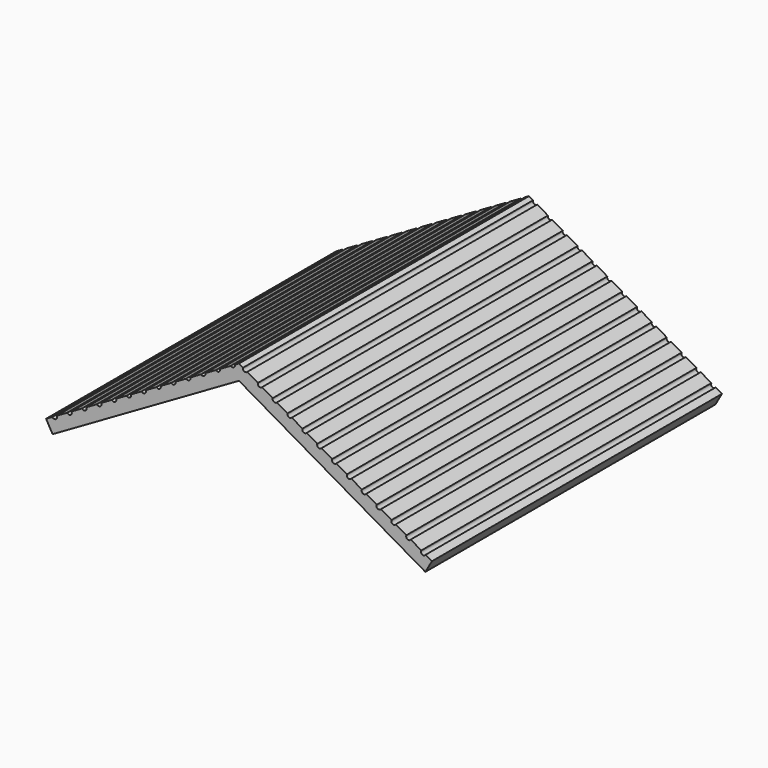
from build123d import *

# Parameters (mm, degrees)
F1_DEPTH = 55
F2_R     = 0.371764
F3_DEPTH = 63.7


with BuildPart() as f1:
    # F0 (on Front) → F1 (new body)
    with BuildSketch(Plane.XZ):
        Polygon((-28.276193, 23.045914), (0, 39.371182), (0, 41.680583), (-29.262428, 24.785912), align=None)
        Polygon((0, 41.680583), (0, 39.371182), (28.276193, 23.045914), (29.262428, 24.785912), align=None)
    extrude(amount=F1_DEPTH)

    # F2 (on face) → F3 (cut)
    with BuildSketch(Plane.XZ.offset(55)):
        with Locations((-27.983138, 25.524511)):
            Circle(F2_R)
        with Locations((-25.732473, 26.83245)):
            Circle(F2_R)
        with Locations((-23.481809, 28.14039)):
            Circle(F2_R)
        with Locations((-21.231145, 29.448329)):
            Circle(F2_R)
        with Locations((-18.980481, 30.756269)):
            Circle(F2_R)
        with Locations((-16.729817, 32.064208)):
            Circle(F2_R)
        with Locations((-14.479152, 33.372148)):
            Circle(F2_R)
        with Locations((-12.228488, 34.680087)):
            Circle(F2_R)
        with Locations((-9.977824, 35.988026)):
            Circle(F2_R)
        with Locations((-7.72716, 37.295966)):
            Circle(F2_R)
        with Locations((-5.476496, 38.603905)):
            Circle(F2_R)
        with Locations((-3.225831, 39.911845)):
            Circle(F2_R)
        with Locations((-0.975167, 41.219784)):
            Circle(F2_R)
        with Locations((1.275497, 42.527724)):
            Circle(F2_R)
        with Locations((3.526161, 43.835663)):
            Circle(F2_R)
        with Locations((7.72716, 37.295966)):
            Circle(F2_R)
        with Locations((27.983138, 25.524511)):
            Circle(F2_R)
        with Locations((12.228488, 34.680087)):
            Circle(F2_R)
        with Locations((25.732473, 26.83245)):
            Circle(F2_R)
        with Locations((-1.275497, 42.527724)):
            Circle(F2_R)
        with Locations((18.980481, 30.756269)):
            Circle(F2_R)
        with Locations((0.975167, 41.219784)):
            Circle(F2_R)
        with Locations((21.231145, 29.448329)):
            Circle(F2_R)
        with Locations((16.729817, 32.064208)):
            Circle(F2_R)
        with Locations((23.481809, 28.14039)):
            Circle(F2_R)
        with Locations((3.225831, 39.911845)):
            Circle(F2_R)
        with Locations((5.476496, 38.603905)):
            Circle(F2_R)
        with Locations((14.479152, 33.372148)):
            Circle(F2_R)
        with Locations((9.977824, 35.988026)):
            Circle(F2_R)
        with Locations((-3.526161, 43.835663)):
            Circle(F2_R)
    extrude(amount=-F3_DEPTH, mode=Mode.SUBTRACT)


solid = f1.part
